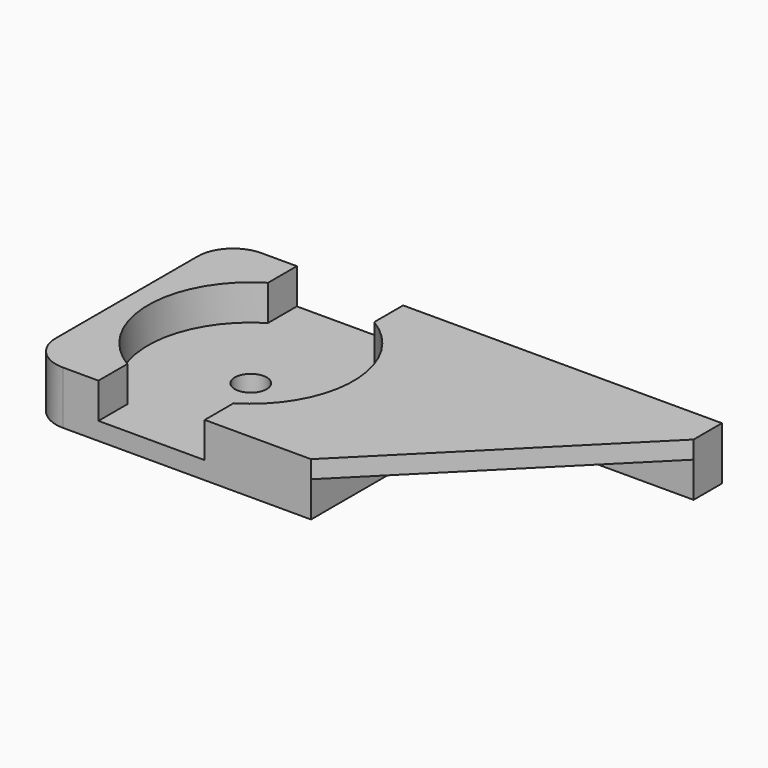
from build123d import *

# Parameters (mm, degrees)
SKETCH006_W     = 14
SKETCH006_H     = 14
PAD002_DEPTH    = 3
POCKET004_DEPTH = 2
SKETCH008_R     = 0.9
POCKET005_DEPTH = 1.001
PAD_DEPTH       = 3
SKETCH010_W     = 12
SKETCH010_H     = 12
POCKET_DEPTH    = 2
FILLET_R        = 2


with BuildPart() as obj1:
    # Sketch006 → Pad002 (new body)
    with BuildSketch(Plane.XY):
        Rectangle(SKETCH006_W, SKETCH006_H)
    extrude(amount=PAD002_DEPTH)

    # Sketch007 → Pocket004 (cut)
    with BuildSketch(Plane.XY.offset(3)):
        with BuildLine():
            Line((-3, 7), (-3, 4.963869))
            ThreePointArc((-3, 4.963869), (-5.8, 0), (-3, -4.963869))
            Line((-3, -7), (-3, -4.963869))
            Line((3, -7), (-3, -7))
            Line((3, -4.963869), (3, -7))
            ThreePointArc((3, -4.963869), (5.8, 0), (3, 4.963869))
            Line((3, 7), (3, 4.963869))
            Line((-3, 7), (3, 7))
        make_face()
    extrude(amount=-POCKET004_DEPTH, mode=Mode.SUBTRACT)

    # Sketch008 → Pocket005 (cut, through all)
    with BuildSketch(Plane.XY.offset(1)):
        Circle(SKETCH008_R)
    extrude(amount=-POCKET005_DEPTH, mode=Mode.SUBTRACT)


with BuildPart() as corner_holder_single:
    # Sketch → Pad (new body)
    with BuildSketch(Plane.XY):
        Polygon((-7, -7), (-7, 7), (7, 7), (7, 5), (-5, -7), align=None)
    extrude(amount=PAD_DEPTH)

    # Sketch010 → Pocket (cut)
    with BuildSketch(Plane(origin=(0, 0, 0), x_dir=(1, 0, 0), z_dir=(0, 0, -1))):
        with Locations((1, 1)):
            Rectangle(SKETCH010_W, SKETCH010_H)
    extrude(amount=-POCKET_DEPTH, mode=Mode.SUBTRACT)


with BuildPart() as corner_holder_single_1:
    # Clone placement: moved
    add(corner_holder_single.part.moved(Location((14, 0, 0))))

    # Fusion: union obj1
    add(obj1.part)

    # Fillet
    fillet_edges = [corner_holder_single_1.edges().sort_by_distance(p)[0] for p in [
        (-7, -7, 1.5),
        (-7, 7, 1.5),
    ]]
    fillet(fillet_edges, radius=FILLET_R)


with BuildPart() as corner_holder_single_2:
    # Clone001004 placement: moved
    add(corner_holder_single_1.part.moved(Location((-35.64867, 51.755502, 0))))


solid = corner_holder_single_2.part
